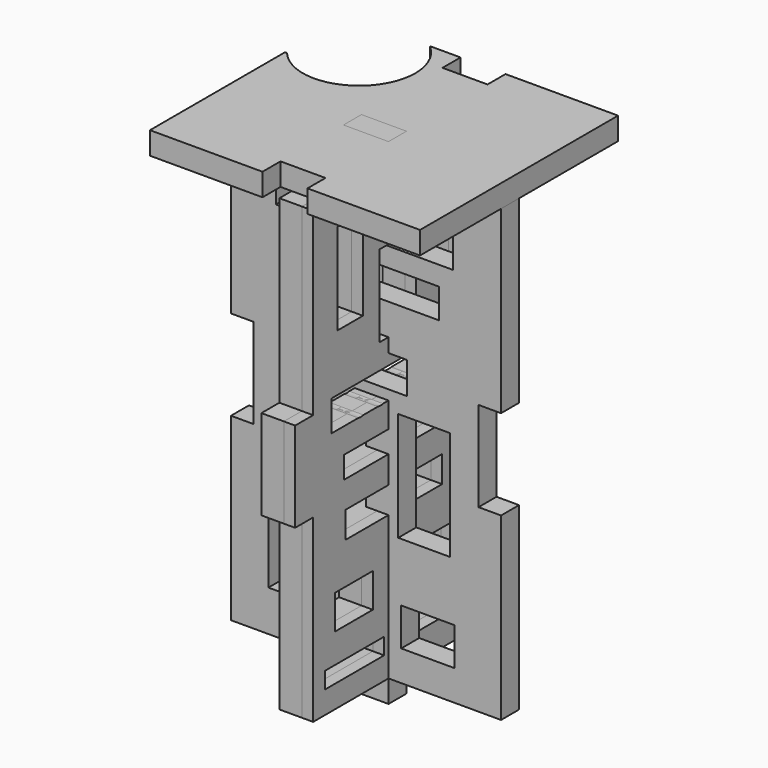
from build123d import *

# Parameters (mm, degrees)
F1_DEPTH = 10
F2_W     = 18.4560827911
F2_H     = 45.8106398582
F2_W_2   = 10.0727183744
F2_H_2   = 70.1990202069
F2_W_3   = 8.7101105601
F2_H_3   = 29.2410850525
F2_W_4   = 23.7292461097
F2_H_4   = 16.8082118034
F2_W_5   = 23.0701016262
F2_H_5   = 48.4472066164
F2_W_6   = 38.5600272566
F2_H_6   = 14.1716301441
F2_W_7   = 78.7679217756
F2_H_7   = 13.5124865919
F2_W_8   = 58.3344008774
F2_H_8   = 13.1829157472
F3_DEPTH = 10
F4_W     = 32.9694813117
F4_H     = 7.3265582323
F4_W_2   = 20.9330040962
F4_H_2   = 15.1764303446
F4_W_3   = 53.6408256739
F4_H_3   = 11.774815619
F4_W_4   = 33.4928093944
F4_H_4   = 10.9898298979
F4_W_5   = 22.5029806606
F4_H_5   = 12.8214657307
F4_W_6   = 56.5829724073
F4_H_6   = 9.7797736526
F4_W_7   = 14.1297783703
F4_H_7   = 40.557696484
F4_W_8   = 20.409679506
F4_H_8   = 36.371095106
F4_W_9   = 13.0831282586
F4_H_9   = 40.2960358188
F5_DEPTH = 10
F6_DEPTH = 5


with BuildPart() as f1:
    # F0 (on Top) → F1 (new body)
    with BuildSketch(Plane.XY):
        with BuildLine():
            Line((-60, 20), (-60, -55))
            Line((-60, -55), (-10, -55))
            Line((-10, -55), (-10, -45))
            Line((-10, -45), (10, -45))
            Line((10, -45), (10, -55))
            Line((10, -55), (60, -55))
            Line((60, -55), (60, 55))
            Line((60, 55), (10, 55))
            Line((10, 55), (10, 45))
            Line((10, 45), (-10, 45))
            Line((-10, 45), (-10, 55))
            Line((-10, 55), (-23.6556218118, 55))
            ThreePointArc((-23.6556218118, 55), (-22.2568724391, 18.1467654253), (-59.0900493322, 20))
            Line((-59.0900493322, 20), (-60, 20))
        make_face()
    extrude(amount=F1_DEPTH)


with BuildPart() as f3:
    # F2 (on Front) → F3 (new body)
    with BuildSketch(Plane.XZ):
        Polygon((60, -80), (60, 0), (10, 0), (10, 10), (-10, 10), (-10, 0), (-60, 0), (-60, -80), (-50, -80), (-50, -120), (-60, -120), (-60, -200), (-10, -200), (-10, -210), (10, -210), (10, -200), (60, -200), (60, -120), (50, -120), (50, -80), align=None)
        with Locations((-34.1315399855, -158.9156985283)):
            Rectangle(F2_W, F2_H, mode=Mode.SUBTRACT)
        with Locations((-5.0363591872, -135.8455978334)):
            Rectangle(F2_W_2, F2_H_2, mode=Mode.SUBTRACT)
        with Locations((-28.9683332667, -110.658377409)):
            Rectangle(F2_W_3, F2_H_3, mode=Mode.SUBTRACT)
        with Locations((27.4985898286, -178.0309230089)):
            Rectangle(F2_W_4, F2_H_4, mode=Mode.SUBTRACT)
        with Locations((25.8507258259, -119.3669512868)):
            Rectangle(F2_W_5, F2_H_5, mode=Mode.SUBTRACT)
        with Locations((-1.0094651952, -79.8182189465)):
            Rectangle(F2_W_6, F2_H_6, mode=Mode.SUBTRACT)
        with Locations((-0.6798934191, -24.1204025224)):
            Rectangle(F2_W_7, F2_H_7, mode=Mode.SUBTRACT)
        with Locations((3.2749818638, -46.0369996727)):
            Rectangle(F2_W_8, F2_H_8, mode=Mode.SUBTRACT)
    extrude(amount=F3_DEPTH)


with BuildPart() as f5:
    # F4 (on Right) → F5 (new body)
    with BuildSketch(Plane.YZ):
        Polygon((38.1357757672, -80), (38.1357757672, 0), (-51.8642242328, 0), (-51.8642242328, -80), (-61.8642242328, -80), (-61.8642242328, -120), (-51.8642242328, -120), (-51.8642242328, -200), (38.1357757672, -200), (38.1357757672, -120), (48.1357757672, -120), (48.1357757672, -80), align=None)
        with Locations((-28.9056678303, -186.3353177905)):
            Rectangle(F4_W, F4_H, mode=Mode.SUBTRACT)
        with Locations((-29.1673308238, -162.000708282)):
            Rectangle(F4_W_2, F4_H_2, mode=Mode.SUBTRACT)
        with Locations((-7.0568444207, -130.20869717)):
            Rectangle(F4_W_3, F4_H_3, mode=Mode.SUBTRACT)
        with Locations((12.9603416426, -182.6720461249)):
            Rectangle(F4_W_4, F4_H_4, mode=Mode.SUBTRACT)
        with Locations((14.2686537001, -159.5149040222)):
            Rectangle(F4_W_5, F4_H_5, mode=Mode.SUBTRACT)
        with Locations((-6.5037533641, -107.3723100126)):
            Rectangle(F4_W_6, F4_H_6, mode=Mode.SUBTRACT)
        with BuildLine():
            Line((-41.7584702373, -77.7089628585), (-41.7584702373, -77.5931179523))
            Line((-41.7584702373, -77.5931179523), (-3.5589418057, -77.5931179523))
            add(Edge.make_bspline(
                [(-3.5589418057, -77.5931179523), (-3.0622391184, -77.5158880149), (-2.5018989626, -77.5158880149)],
                knots=[0.711555898, 0.711555898, 0.711555898, 1, 1, 1], degree=2))
            add(Edge.make_bspline(
                [(-2.5018989626, -77.5158880149), (-1.8495557972, -77.5158880149), (-1.2308848846, -77.5931179523)],
                knots=[0, 0, 0, 0.3224903099, 0.3224903099, 0.3224903099], degree=2))
            Line((-1.2308848846, -77.5931179523), (16.1198580801, -77.5931179523))
            add(Edge.make_bspline(
                [(16.1198580801, -77.5931179523), (16.9374055132, -76.7346774939), (18.5046440197, -76.7346774939)],
                knots=[0.5216483833, 0.5216483833, 0.5216483833, 1, 1, 1], degree=2))
            add(Edge.make_bspline(
                [(18.5046440197, -76.7346774939), (19.3125879806, -76.7346774939), (20.3997478691, -77.0584491547)],
                knots=[0, 0, 0, 1, 1, 1], degree=2))
            Line((20.3997478691, -77.0584491547), (20.2262375622, -77.5931179523))
            Line((20.2262375622, -77.5931179523), (21.6324564859, -77.5931179523))
            Line((21.6324564859, -77.5931179523), (21.6324564859, -91.2806391716))
            Line((21.6324564859, -91.2806391716), (16.7699408097, -91.2806391716))
            Line((16.7699408097, -91.2806391716), (15.2283124432, -91.2806391716))
            Line((15.2283124432, -91.2806391716), (10.3094961714, -91.2806391716))
            add(Edge.make_bspline(
                [(10.3094961714, -91.2806391716), (10.2362124684, -91.2979464862), (10.1638107768, -91.3133133759)],
                knots=[0.9005120931, 0.9005120931, 0.9005120931, 1, 1, 1], degree=2))
            add(Edge.make_bspline(
                [(10.1638107768, -91.3133133759), (9.4360671355, -91.4677732508), (8.405344509, -91.4677732508)],
                knots=[0, 0, 0, 1, 1, 1], degree=2))
            add(Edge.make_bspline(
                [(8.405344509, -91.4677732508), (7.5737073423, -91.4677732508), (6.8712048155, -91.2806391716)],
                knots=[0, 0, 0, 0.3688754729, 0.3688754729, 0.3688754729], degree=2))
            Line((6.8712048155, -91.2806391716), (-1.5146998427, -91.2806391716))
            add(Edge.make_bspline(
                [(-1.5146998427, -91.2806391716), (-2.3034855287, -91.4677732508), (-3.2652871903, -91.4677732508)],
                knots=[0.5682703015, 0.5682703015, 0.5682703015, 1, 1, 1], degree=2))
            add(Edge.make_bspline(
                [(-3.2652871903, -91.4677732508), (-4.5863668066, -91.4677732508), (-5.5741695391, -91.2806391716)],
                knots=[0, 0, 0, 0.5477225575, 0.5477225575, 0.5477225575], degree=2))
            Line((-5.5741695391, -91.2806391716), (-9.5951716778, -91.2806391716))
            Line((-9.5951716778, -91.2806391716), (-10.8664952632, -91.2806391716))
            Line((-10.8664952632, -91.2806391716), (-13.0396230627, -91.2806391716))
            add(Edge.make_bspline(
                [(-13.0396230627, -91.2806391716), (-13.6662685107, -91.4677732508), (-14.4042204742, -91.4677732508)],
                knots=[0.3156013684, 0.3156013684, 0.3156013684, 1, 1, 1], degree=2))
            add(Edge.make_bspline(
                [(-14.4042204742, -91.4677732508), (-15.2592564782, -91.4677732508), (-15.9161319842, -91.2806391716)],
                knots=[0, 0, 0, 0.4605661865, 0.4605661865, 0.4605661865], degree=2))
            Line((-15.9161319842, -91.2806391716), (-23.9233699311, -91.2806391716))
            add(Edge.make_bspline(
                [(-23.9233699311, -91.2806391716), (-24.6037787489, -91.4677732508), (-25.4124569409, -91.4677732508)],
                knots=[0.6340763655, 0.6340763655, 0.6340763655, 1, 1, 1], degree=2))
            add(Edge.make_bspline(
                [(-25.4124569409, -91.4677732508), (-26.150384221, -91.4677732508), (-26.7982099074, -91.2806391716)],
                knots=[0, 0, 0, 0.5400617249, 0.5400617249, 0.5400617249], degree=2))
            Line((-26.7982099074, -91.2806391716), (-35.6424532688, -91.2806391716))
            Line((-35.6424532688, -91.2806391716), (-37.2375485151, -91.2806391716))
            Line((-37.2375485151, -91.2806391716), (-41.7584702373, -91.2806391716))
            Line((-41.7584702373, -91.2806391716), (-41.7584702373, -77.7089628585))
        make_face(mode=Mode.SUBTRACT)
        with Locations((-31.2606329098, -32.0852366276)):
            Rectangle(F4_W_7, F4_H_7, mode=Mode.SUBTRACT)
        with Locations((-4.8327145632, -48.3083138242)):
            Rectangle(F4_W_8, F4_H_8, mode=Mode.SUBTRACT)
        with Locations((22.9035178199, -32.2160669602)):
            Rectangle(F4_W_9, F4_H_9, mode=Mode.SUBTRACT)
    extrude(amount=F5_DEPTH)


with BuildPart() as f6:
    # F4 (on Right) → F6 (new body, symmetric)
    with BuildSketch(Plane.YZ):
        Polygon((38.1357757672, -80), (38.1357757672, 0), (-51.8642242328, 0), (-51.8642242328, -80), (-61.8642242328, -80), (-61.8642242328, -120), (-51.8642242328, -120), (-51.8642242328, -200), (38.1357757672, -200), (38.1357757672, -120), (48.1357757672, -120), (48.1357757672, -80), align=None)
        with Locations((-28.9056678303, -186.3353177905)):
            Rectangle(F4_W, F4_H, mode=Mode.SUBTRACT)
        with Locations((-29.1673308238, -162.000708282)):
            Rectangle(F4_W_2, F4_H_2, mode=Mode.SUBTRACT)
        with Locations((-7.0568444207, -130.20869717)):
            Rectangle(F4_W_3, F4_H_3, mode=Mode.SUBTRACT)
        with Locations((12.9603416426, -182.6720461249)):
            Rectangle(F4_W_4, F4_H_4, mode=Mode.SUBTRACT)
        with Locations((14.2686537001, -159.5149040222)):
            Rectangle(F4_W_5, F4_H_5, mode=Mode.SUBTRACT)
        with Locations((-6.5037533641, -107.3723100126)):
            Rectangle(F4_W_6, F4_H_6, mode=Mode.SUBTRACT)
        with BuildLine():
            Line((-41.7584702373, -77.7089628585), (-41.7584702373, -77.5931179523))
            Line((-41.7584702373, -77.5931179523), (-3.5589418057, -77.5931179523))
            add(Edge.make_bspline(
                [(-3.5589418057, -77.5931179523), (-3.0622391184, -77.5158880149), (-2.5018989626, -77.5158880149)],
                knots=[0.711555898, 0.711555898, 0.711555898, 1, 1, 1], degree=2))
            add(Edge.make_bspline(
                [(-2.5018989626, -77.5158880149), (-1.8495557972, -77.5158880149), (-1.2308848846, -77.5931179523)],
                knots=[0, 0, 0, 0.3224903099, 0.3224903099, 0.3224903099], degree=2))
            Line((-1.2308848846, -77.5931179523), (16.1198580801, -77.5931179523))
            add(Edge.make_bspline(
                [(16.1198580801, -77.5931179523), (16.9374055132, -76.7346774939), (18.5046440197, -76.7346774939)],
                knots=[0.5216483833, 0.5216483833, 0.5216483833, 1, 1, 1], degree=2))
            add(Edge.make_bspline(
                [(18.5046440197, -76.7346774939), (19.3125879806, -76.7346774939), (20.3997478691, -77.0584491547)],
                knots=[0, 0, 0, 1, 1, 1], degree=2))
            Line((20.3997478691, -77.0584491547), (20.2262375622, -77.5931179523))
            Line((20.2262375622, -77.5931179523), (21.6324564859, -77.5931179523))
            Line((21.6324564859, -77.5931179523), (21.6324564859, -91.2806391716))
            Line((21.6324564859, -91.2806391716), (16.7699408097, -91.2806391716))
            Line((16.7699408097, -91.2806391716), (15.2283124432, -91.2806391716))
            Line((15.2283124432, -91.2806391716), (10.3094961714, -91.2806391716))
            add(Edge.make_bspline(
                [(10.3094961714, -91.2806391716), (10.2362124684, -91.2979464862), (10.1638107768, -91.3133133759)],
                knots=[0.9005120931, 0.9005120931, 0.9005120931, 1, 1, 1], degree=2))
            add(Edge.make_bspline(
                [(10.1638107768, -91.3133133759), (9.4360671355, -91.4677732508), (8.405344509, -91.4677732508)],
                knots=[0, 0, 0, 1, 1, 1], degree=2))
            add(Edge.make_bspline(
                [(8.405344509, -91.4677732508), (7.5737073423, -91.4677732508), (6.8712048155, -91.2806391716)],
                knots=[0, 0, 0, 0.3688754729, 0.3688754729, 0.3688754729], degree=2))
            Line((6.8712048155, -91.2806391716), (-1.5146998427, -91.2806391716))
            add(Edge.make_bspline(
                [(-1.5146998427, -91.2806391716), (-2.3034855287, -91.4677732508), (-3.2652871903, -91.4677732508)],
                knots=[0.5682703015, 0.5682703015, 0.5682703015, 1, 1, 1], degree=2))
            add(Edge.make_bspline(
                [(-3.2652871903, -91.4677732508), (-4.5863668066, -91.4677732508), (-5.5741695391, -91.2806391716)],
                knots=[0, 0, 0, 0.5477225575, 0.5477225575, 0.5477225575], degree=2))
            Line((-5.5741695391, -91.2806391716), (-9.5951716778, -91.2806391716))
            Line((-9.5951716778, -91.2806391716), (-10.8664952632, -91.2806391716))
            Line((-10.8664952632, -91.2806391716), (-13.0396230627, -91.2806391716))
            add(Edge.make_bspline(
                [(-13.0396230627, -91.2806391716), (-13.6662685107, -91.4677732508), (-14.4042204742, -91.4677732508)],
                knots=[0.3156013684, 0.3156013684, 0.3156013684, 1, 1, 1], degree=2))
            add(Edge.make_bspline(
                [(-14.4042204742, -91.4677732508), (-15.2592564782, -91.4677732508), (-15.9161319842, -91.2806391716)],
                knots=[0, 0, 0, 0.4605661865, 0.4605661865, 0.4605661865], degree=2))
            Line((-15.9161319842, -91.2806391716), (-23.9233699311, -91.2806391716))
            add(Edge.make_bspline(
                [(-23.9233699311, -91.2806391716), (-24.6037787489, -91.4677732508), (-25.4124569409, -91.4677732508)],
                knots=[0.6340763655, 0.6340763655, 0.6340763655, 1, 1, 1], degree=2))
            add(Edge.make_bspline(
                [(-25.4124569409, -91.4677732508), (-26.150384221, -91.4677732508), (-26.7982099074, -91.2806391716)],
                knots=[0, 0, 0, 0.5400617249, 0.5400617249, 0.5400617249], degree=2))
            Line((-26.7982099074, -91.2806391716), (-35.6424532688, -91.2806391716))
            Line((-35.6424532688, -91.2806391716), (-37.2375485151, -91.2806391716))
            Line((-37.2375485151, -91.2806391716), (-41.7584702373, -91.2806391716))
            Line((-41.7584702373, -91.2806391716), (-41.7584702373, -77.7089628585))
        make_face(mode=Mode.SUBTRACT)
        with Locations((-31.2606329098, -32.0852366276)):
            Rectangle(F4_W_7, F4_H_7, mode=Mode.SUBTRACT)
        with Locations((-4.8327145632, -48.3083138242)):
            Rectangle(F4_W_8, F4_H_8, mode=Mode.SUBTRACT)
        with Locations((22.9035178199, -32.2160669602)):
            Rectangle(F4_W_9, F4_H_9, mode=Mode.SUBTRACT)
    extrude(amount=F6_DEPTH, both=True)


solid = Compound([f1.part, f3.part, f5.part, f6.part])
